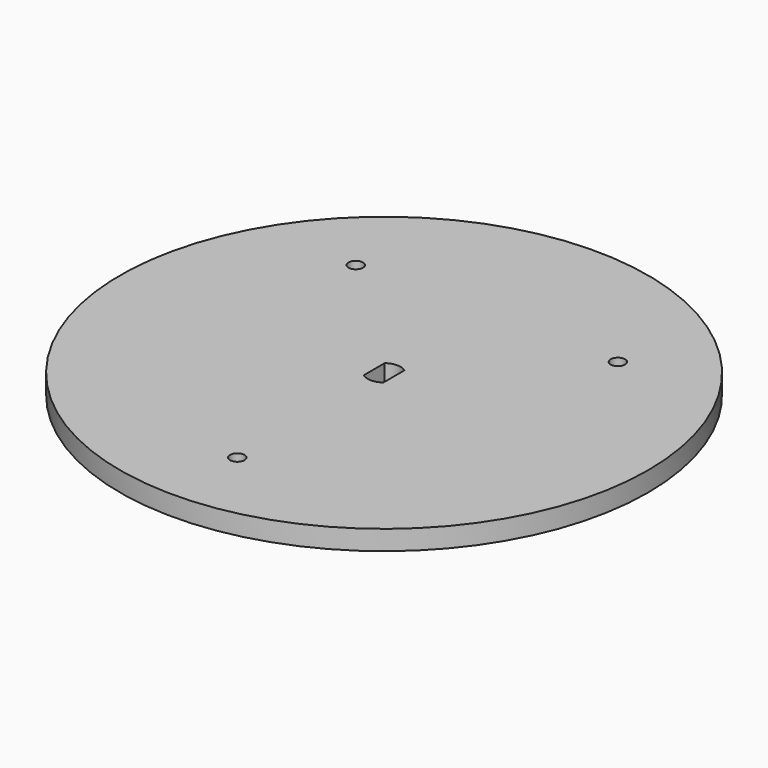
from build123d import *

# Parameters (mm, degrees)
F0_R     = 40.27973
F0_R_2   = 1.1
F1_DEPTH = 3


with BuildPart() as f1:
    # F0 (on Top) → F1 (new body)
    with BuildSketch(Plane.XY):
        with Locations((-15.646882, 18.841985)):
            Circle(F0_R)
        with Locations((-15.646882, -9.158015)):
            Circle(F0_R_2, mode=Mode.SUBTRACT)
        with Locations((-35.646882, 38.441985)):
            Circle(F0_R_2, mode=Mode.SUBTRACT)
        with BuildLine():
            Line((-14.146882, 20.841985), (-14.146882, 16.841985))
            ThreePointArc((-14.146882, 16.841985), (-15.646882, 16.341985), (-17.146882, 16.841985))
            Line((-17.146882, 16.841985), (-17.146882, 20.841985))
            ThreePointArc((-17.146882, 20.841985), (-15.646882, 21.341985), (-14.146882, 20.841985))
        make_face(mode=Mode.SUBTRACT)
        with Locations((4.353118, 38.441985)):
            Circle(F0_R_2, mode=Mode.SUBTRACT)
    extrude(amount=F1_DEPTH)


solid = f1.part
